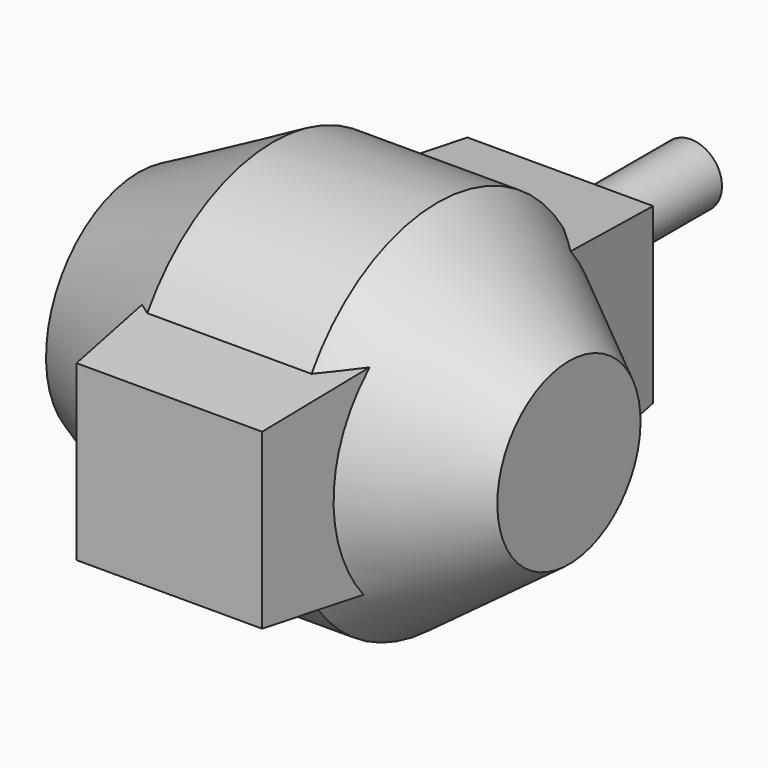
from build123d import *

# Parameters (mm, degrees)
F0_W     = 61.5850389004
F0_H     = 58.4090147167
F1_DEPTH = 63.5
F1_TAPER = 6
F2_R     = 8.0775927696
F3_DEPTH = 50.8
F7_D     = 25.4
F7_DEPTH = 50.8
F7_TIP   = 7.6309298617


with BuildPart() as f1:
    # F0 (on Front) → F1 (new body, symmetric)
    with BuildSketch(Plane.XZ):
        with Locations((6.7078769207, 0.9706830606)):
            Rectangle(F0_W, F0_H)
    extrude(amount=F1_DEPTH, both=True, taper=F1_TAPER)

    # F2 (on face) → F3 (join)
    with BuildSketch(Plane(origin=(0, 63.5, 0), x_dir=(-1, 0, 0), z_dir=(0, 1, 0))):
        Circle(F2_R)
    extrude(amount=F3_DEPTH)

    # F4 (on Front) → F5 (revolve)
    with BuildSketch(Plane.XZ):
        Polygon((-52.0598404109, 0), (59.7408004105, 0), (59.7408004105, 23.2562404126), (25.6031993777, 48.4327189624), (-17.0687995851, 48.4327189624), (-52.0598404109, 30.0837587565), align=None)
    revolve(axis=Axis((3.8404799998, 0, 0), (-1, 0, 0)))

    # F7
    with Locations(Plane(origin=(-52.0598404109, 0, 0), x_dir=(0, -1, 0), z_dir=(-1, 0, 0))):
        with Locations((0, 0)):
            Hole(F7_D / 2, depth=F7_DEPTH)
            with Locations((0, 0, -(F7_DEPTH + F7_TIP / 2))):  # 118° drill point
                Cone(0, F7_D / 2, F7_TIP, mode=Mode.SUBTRACT)


solid = f1.part
